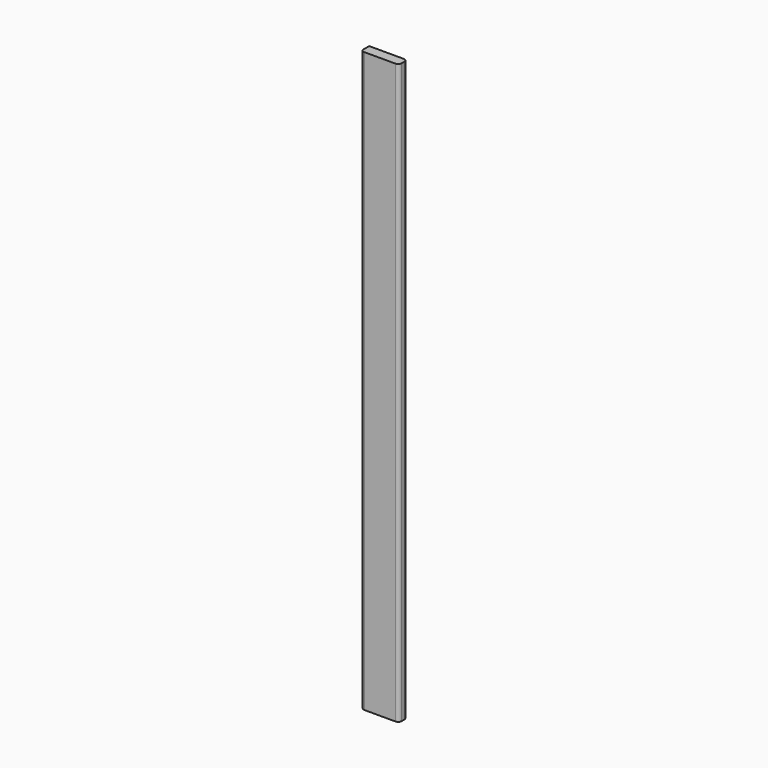
from build123d import *

# Parameters (mm, degrees)
F0_W     = 139.7
F0_H     = 38.1
F1_DEPTH = 2133.6
F2_R     = 12.7
F3_R     = 12.7
F4_R     = 12.7


with BuildPart() as f1:
    # F0 (on Top) → F1 (new body)
    with BuildSketch(Plane.XY):
        with Locations((-6.848779, -48.959874)):
            Rectangle(F0_W, F0_H)
    extrude(amount=F1_DEPTH)

    # F2
    f2_edges = [f1.edges().sort_by_distance(p)[0] for p in [
        (-76.698779, -68.009874, 1066.8),
    ]]
    fillet(f2_edges, radius=F2_R)

    # F3
    f3_edges = [f1.edges().sort_by_distance(p)[0] for p in [
        (63.001221, -68.009874, 1066.8),
    ]]
    fillet(f3_edges, radius=F3_R)

    # F4
    f4_edges = [f1.edges().sort_by_distance(p)[0] for p in [
        (63.001221, -29.909874, 1066.8),
    ]]
    fillet(f4_edges, radius=F4_R)


solid = f1.part
